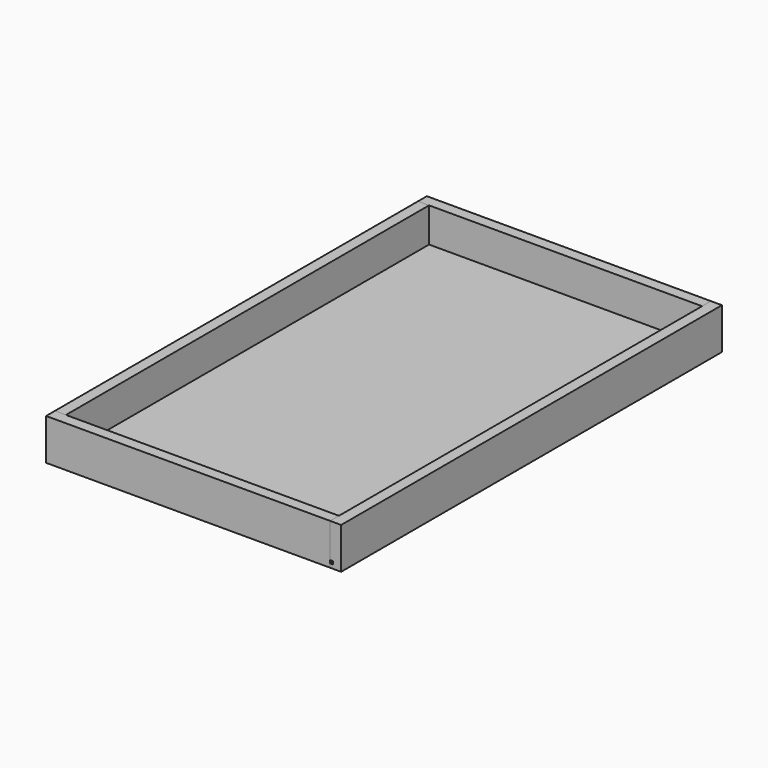
from build123d import *

# Parameters (mm, degrees)
F0_W      = 787.4
F0_H      = 68.2625
F1_DEPTH  = 18.25625
F2_W      = 18.25625
F2_H      = 68.2625
F3_DEPTH  = 469.9
F4_W      = 4.826
F4_H      = 4.826
F5_DEPTH  = 787.401
F6_W      = 4.826
F6_H      = 4.826
F7_DEPTH  = 469.9
F9_W      = 18.25625
F9_H      = 68.2625
F10_DEPTH = 750.8875
F11_W     = 4.826
F11_H     = 4.826
F12_DEPTH = 750.8875
F13_W     = 455.6125
F13_H     = 758.825
F14_DEPTH = 4.7625


with BuildPart() as f1:
    # F0 (on Right) → F1 (new body)
    with BuildSketch(Plane.YZ):
        Rectangle(F0_W, F0_H)
    extrude(amount=F1_DEPTH)

    # F4 (on face) → F5 (cut, through all)
    with BuildSketch(Plane.XZ.offset(393.7)):
        with Locations((2.413, -25.36825)):
            Rectangle(F4_W, F4_H)
    extrude(amount=-F5_DEPTH, mode=Mode.SUBTRACT)


with BuildPart() as f3:
    # F2 (on face) → F3 (new body)
    with BuildSketch(Plane(origin=(0, 0, 0), x_dir=(0, -1, 0), z_dir=(-1, 0, 0))):
        with Locations((384.571875, 0)):
            Rectangle(F2_W, F2_H)
    extrude(amount=F3_DEPTH)

    # F6 (on face) → F7 (cut, through all)
    with BuildSketch(Plane(origin=(-469.9, 0, 0), x_dir=(0, -1, 0), z_dir=(-1, 0, 0))):
        with Locations((377.85675, -25.36825)):
            Rectangle(F6_W, F6_H)
    extrude(amount=-F7_DEPTH, mode=Mode.SUBTRACT)


with BuildPart() as f8_1:
    # F8: instance of F3
    add(f3.part.mirror(Plane.XZ))


with BuildPart() as f10:
    # F9 (on face) → F10 (new body, through all)
    with BuildSketch(Plane(origin=(0, -375.44375, 0), x_dir=(-1, 0, 0), z_dir=(0, 1, 0))):
        with Locations((460.771875, 0)):
            Rectangle(F9_W, F9_H)
    extrude(amount=F10_DEPTH)

    # F11 (on face) → F12 (cut, through all)
    with BuildSketch(Plane(origin=(0, 375.44375, 0), x_dir=(-1, 0, 0), z_dir=(0, 1, 0))):
        with Locations((454.05675, -25.36825)):
            Rectangle(F11_W, F11_H)
    extrude(amount=-F12_DEPTH, mode=Mode.SUBTRACT)


with BuildPart() as f14:
    # F13 (on face) → F14 (new body)
    with BuildSketch(Plane.XY.offset(-27.78125)):
        with Locations((-227.80625, 0)):
            Rectangle(F13_W, F13_H)
    extrude(amount=F14_DEPTH)


solid = Compound([f1.part, f3.part, f8_1.part, f10.part, f14.part])
